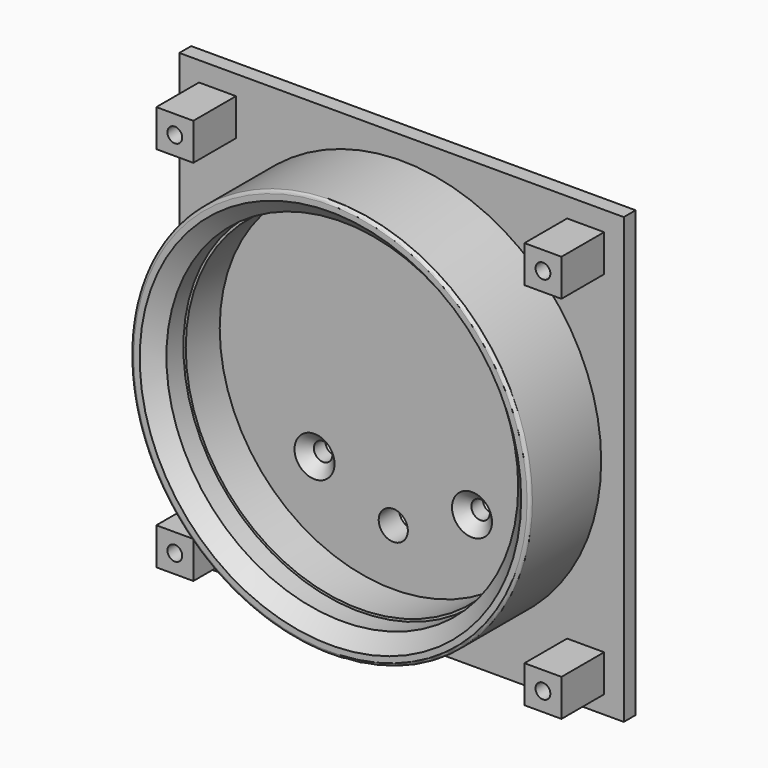
from build123d import *

# Parameters (mm, degrees)
F0_R           = 30.1625
F1_DEPTH       = 4.318
F2_R           = 34.2265
F2_R_2         = 30.1625
F3_DEPTH       = 17.78
F0_W           = 76.2
F0_H           = 76.2
F0_W_2         = 6.35
F0_H_2         = 6.35
F4_DEPTH       = 2.54
F5_DEPTH       = 11.684
F6_D           = 2.54
F8_D           = 3.175
F8_CSINK_D     = 6.858
F8_CSINK_ANGLE = 90
F9_SIZE        = 2.54
F10_R          = 0.508
F11_R          = 30.1625
F11_R_2        = 29.7565
F12_DEPTH      = 11.6
F13_D          = 5


with BuildPart() as f1:
    # F0 (on Front) → F1 (new body)
    with BuildSketch(Plane.XZ):
        Circle(F0_R)
    extrude(amount=F1_DEPTH)

    # F2 (on Front) → F3 (join)
    with BuildSketch(Plane.XZ):
        Circle(F2_R)
        Circle(F2_R_2, mode=Mode.SUBTRACT)
    extrude(amount=F3_DEPTH)

    # F0 (on Front) → F4 (join)
    with BuildSketch(Plane.XZ):
        Rectangle(F0_W, F0_H)
        with Locations((-31.5595, -31.5595)):
            Rectangle(F0_W_2, F0_H_2, mode=Mode.SUBTRACT)
        with Locations((31.5595, -31.8507122787)):
            Rectangle(F0_W_2, F0_H_2, mode=Mode.SUBTRACT)
        with Locations((-31.5595, 31.5595)):
            Rectangle(F0_W_2, F0_H_2, mode=Mode.SUBTRACT)
        Circle(F0_R, mode=Mode.SUBTRACT)
        with Locations((31.5595, 31.5595)):
            Rectangle(F0_W_2, F0_H_2, mode=Mode.SUBTRACT)
    extrude(amount=F4_DEPTH)

    # F0 (on Front) → F5 (join)
    with BuildSketch(Plane.XZ):
        with Locations((-31.5595, -31.5595)):
            Rectangle(F0_W_2, F0_H_2)
        with Locations((-31.5595, 31.5595)):
            Rectangle(F0_W_2, F0_H_2)
        with Locations((31.5595, 31.5595)):
            Rectangle(F0_W_2, F0_H_2)
        with Locations((31.5595, -31.8507122787)):
            Rectangle(F0_W_2, F0_H_2)
    extrude(amount=F5_DEPTH)

    # F6 (through all)
    with Locations(Plane(origin=(0, 0, 0), x_dir=(1, 0, 0), z_dir=(0, 1, 0))):
        with Locations((-31.5595, -31.5595), (31.5595, -31.5595), (-31.5595, 31.5595), (31.5595, 31.8507122787)):
            Hole(F6_D / 2)

    # F8 (through all)
    with Locations(Plane.XZ.offset(4.318)):
        with Locations((-13.5, -14.1), (13.5, -14.1)):
            CounterSinkHole(F8_D / 2, F8_CSINK_D / 2, counter_sink_angle=F8_CSINK_ANGLE)

    # F9
    f9_edges = [f1.edges().sort_by_distance(p)[0] for p in [
        (-30.1625, -17.78, 0),
    ]]
    chamfer(f9_edges, length=F9_SIZE)

    # F10
    f10_edges = [f1.edges().sort_by_distance(p)[0] for p in [
        (-34.2265, -17.78, 0),
    ]]
    fillet(f10_edges, radius=F10_R)

    # F11 (on Front) → F12 (join)
    with BuildSketch(Plane.XZ):
        Circle(F11_R)
        Circle(F11_R_2, mode=Mode.SUBTRACT)
    extrude(amount=F12_DEPTH)

    # F13 (through all)
    with Locations(Plane.XZ.offset(4.318)):
        with Locations((0, -20.1)):
            Hole(F13_D / 2)


solid = f1.part
